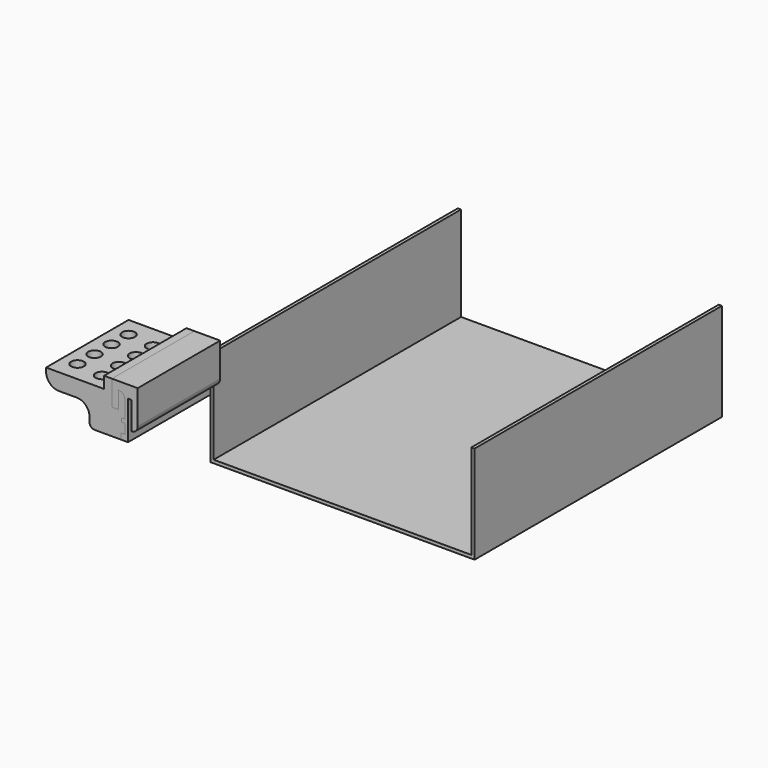
from build123d import *

# Parameters (mm, degrees)
F1_DEPTH = 304.8
F3_DEPTH = 101.6
F4_W     = 101.6
F4_H     = 3.623174
F5_DEPTH = 3.175
F7_DEPTH = 101.6
F8_R     = 6.35
F9_DEPTH = 25.4
F10_R    = 5.08


with BuildPart() as f1:
    # F0 (on Front) → F1 (new body)
    with BuildSketch(Plane.XZ):
        Polygon((-127, 36.542452), (-130.175, 36.542452), (-130.175, -59.905658), (0, -59.905658), (130.175, -59.905658), (130.175, 36.542452), (127, 36.542452), (127, -56.730658), (0, -56.730658), (-127, -56.730658), align=None)
    extrude(amount=F1_DEPTH)

    # F2 (on face) → F3 (join)
    with BuildSketch(Plane.XZ.offset(304.8)):
        with BuildLine():
            ThreePointArc((-127, 9.133371), (-122.509872, 10.993243), (-120.65, 15.483371))
            Line((-120.65, 15.483371), (-120.65, 48.713591))
            Line((-120.65, 48.713591), (-146.05, 48.713591))
            Line((-146.05, 48.713591), (-146.05, 23.999967))
            Line((-146.05, 23.999967), (-139.7, 23.999967))
            Line((-139.7, 23.999967), (-139.7, 41.051134))
            ThreePointArc((-139.7, 41.051134), (-135.209872, 39.191263), (-133.35, 34.701134))
            Line((-133.35, 34.701134), (-133.35, 4.570095))
            Line((-133.35, 4.570095), (-136.962131, 4.570095))
            Line((-136.962131, 4.570095), (-136.962131, -1.299595))
            Line((-136.962131, -1.299595), (-130.175, -1.299595))
            Line((-130.175, -1.299595), (-130.175, 36.542452))
            Line((-130.175, 36.542452), (-127, 36.542452))
            Line((-127, 36.542452), (-127, 9.133371))
        make_face()
    extrude(amount=F3_DEPTH)

    # F4 (on face) → F5 (join)
    with BuildSketch(Plane(origin=(-133.35, 0, 0), x_dir=(0, -1, 0), z_dir=(-1, 0, 0))):
        with Locations((355.6, 15.906682)):
            Rectangle(F4_W, F4_H)
    extrude(amount=F5_DEPTH)


with BuildPart() as f7:
    # F6 (on face) → F7 (new body)
    with BuildSketch(Plane(origin=(0, -304.8, 0), x_dir=(-1, 0, 0), z_dir=(0, 1, 0))):
        with BuildLine():
            Line((146.05, 23.999967), (139.7, 23.999967))
            Line((139.7, 23.999967), (139.7, 41.051134))
            ThreePointArc((139.7, 41.051134), (135.209872, 39.191263), (133.35, 34.701134))
            Line((133.35, 34.701134), (133.35, 17.718269))
            Line((133.35, 17.718269), (136.525, 17.718269))
            Line((136.525, 17.718269), (136.525, 14.095095))
            Line((136.525, 14.095095), (133.35, 14.095095))
            Line((133.35, 14.095095), (133.35, 4.570095))
            Line((133.35, 4.570095), (136.962131, 4.570095))
            Line((136.962131, 4.570095), (136.962131, -1.299595))
            Line((136.962131, -1.299595), (168.124224, -1.299595))
            Line((168.124224, -1.299595), (168.124224, 8.280211))
            ThreePointArc((168.124224, 8.280211), (171.843968, 17.260467), (180.824224, 20.980211))
            Line((180.824224, 20.980211), (198.268429, 20.980211))
            ThreePointArc((198.268429, 20.980211), (207.248685, 24.699955), (210.968429, 33.680211))
            Line((210.968429, 33.680211), (210.968429, 37.278183))
            Line((210.968429, 37.278183), (153.818429, 37.278183))
            Line((153.818429, 37.278183), (153.818429, 48.713591))
            Line((153.818429, 48.713591), (146.05, 48.713591))
            Line((146.05, 48.713591), (146.05, 23.999967))
        make_face()
    extrude(amount=-F7_DEPTH)

    # F8 (on face) → F9 (cut)
    with BuildSketch(Plane.XY.offset(37.278183)):
        with Locations((-195.728429, -323.85)):
            Circle(F8_R)
        with Locations((-195.728429, -344.805)):
            Circle(F8_R)
        with Locations((-195.728429, -365.76)):
            Circle(F8_R)
        with Locations((-195.728429, -386.715)):
            Circle(F8_R)
        with Locations((-169.058429, -327.025)):
            Circle(F8_R)
        with Locations((-169.058429, -347.98)):
            Circle(F8_R)
        with Locations((-169.058429, -368.935)):
            Circle(F8_R)
        with Locations((-169.058429, -389.89)):
            Circle(F8_R)
    extrude(amount=-F9_DEPTH, mode=Mode.SUBTRACT)

    # F10
    f10_edges = [f7.edges().sort_by_distance(p)[0] for p in [
        (-168.124224, -355.6, -1.299595),
    ]]
    fillet(f10_edges, radius=F10_R)


solid = Compound([f1.part, f7.part])
